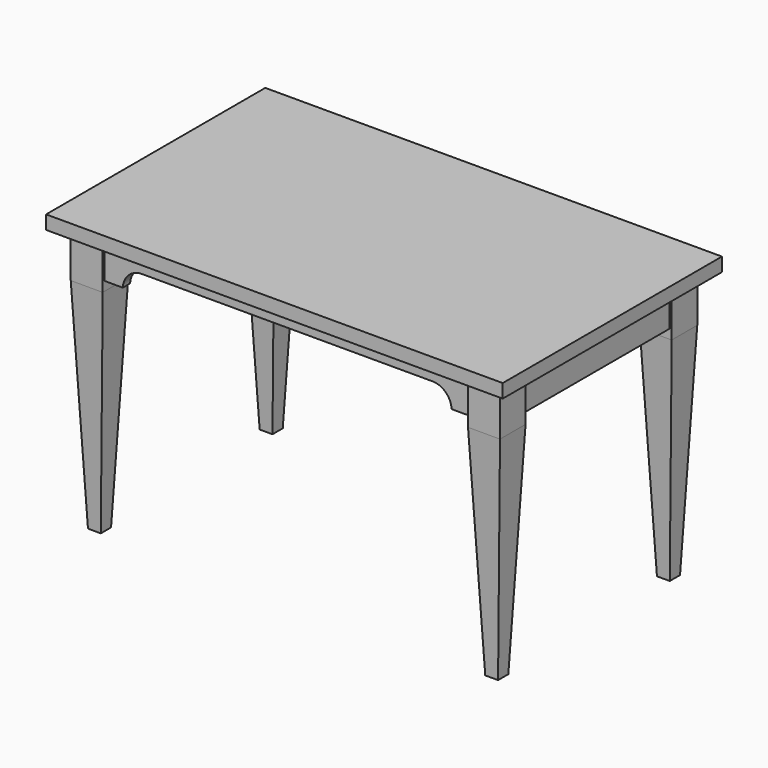
from build123d import *

# Parameters (mm, degrees)
F0_W      = 1270
F0_H      = 762
F0_W_2    = 1263.65
F0_H_2    = 755.65
F1_DEPTH  = 38.1
F3_W      = 88.9
F3_H      = 88.9
F4_DEPTH  = 127
F6_W      = 1181.1
F6_H      = 673.1
F7_DEPTH  = 101.6
F8_T      = -25.4
F9_W      = 1270
F9_H      = 762
F9_W_2    = 1193.8
F9_H_2    = 685.8
F10_DEPTH = 3.175
F11_W     = 1270
F11_H     = 762
F12_DEPTH = 38.1
F13_W     = 88.9
F13_H     = 88.9
F14_DEPTH = 609.6
F14_TAPER = 2.5
F15_W     = 914.4
F15_H     = 89.9768384933
F16_DEPTH = 1219.2


with BuildPart() as f1:
    # F0 (on Top) → F1 (new body)
    with BuildSketch(Plane.XY):
        Rectangle(F0_W, F0_H)
        Rectangle(F0_W_2, F0_H_2, mode=Mode.SUBTRACT)
    extrude(amount=F1_DEPTH)



with BuildPart() as f4:
    # F3 (on face) → F4 (new body)
    with BuildSketch(Plane(origin=(0, 0, 0), x_dir=(1, 0, 0), z_dir=(0, 0, -1))):
        with Locations((-552.45, 298.45)):
            Rectangle(F3_W, F3_H)
    extrude(amount=F4_DEPTH)


with BuildPart() as f4b:
    # F3 (on face) → F4, piece 2 (new body)
    with BuildSketch(Plane(origin=(0, 0, 0), x_dir=(1, 0, 0), z_dir=(0, 0, -1))):
        with Locations((-552.45, -298.45)):
            Rectangle(F3_W, F3_H)
    extrude(amount=F4_DEPTH)


with BuildPart() as f5_1:
    # F5: instance of F4
    add(f4.part.mirror(Plane.YZ))


with BuildPart() as f5_2:
    # F5: instance of F4b
    add(f4b.part.mirror(Plane.YZ))


with BuildPart() as f7:
    # F6 (on face) → F7 (new body)
    with BuildSketch(Plane(origin=(0, 0, 0), x_dir=(1, 0, 0), z_dir=(0, 0, -1))):
        Rectangle(F6_W, F6_H)
    extrude(amount=F7_DEPTH)

    # F8
    f8_openings = [f7.faces().sort_by_distance(p)[0] for p in [
        (0, 0, -101.6),
    ]]
    offset(amount=F8_T, openings=f8_openings)

    # F15 (on face) → F16 (cut)
    with BuildSketch(Plane.XZ.offset(336.55)):
        with BuildLine():
            Line((404.0411037901, -50.8), (-404.0411037901, -50.8))
            ThreePointArc((-404.0411037901, -50.8), (-440.8055847679, -65.5420254846), (-457.2, -101.6))
            Line((-457.2, -101.6), (457.2, -101.6))
            ThreePointArc((457.2, -101.6), (440.8055847679, -65.5420254846), (404.0411037901, -50.8))
        make_face()
        with Locations((0, -146.5884192467)):
            Rectangle(F15_W, F15_H)
    extrude(amount=-F16_DEPTH, mode=Mode.SUBTRACT)


with BuildPart() as f1_1:
    add(f1.part)

    add(f4.part)  # F10 merges F4

    add(f4b.part)  # F10 merges F4b

    add(f5_1.part)  # F10 merges F5_1

    add(f5_2.part)  # F10 merges F5_2
    # F9 (on Top) → F10 (join)
    with BuildSketch(Plane.XY):
        Rectangle(F9_W, F9_H)
        Rectangle(F9_W_2, F9_H_2, mode=Mode.SUBTRACT)
    extrude(amount=F10_DEPTH)


with BuildPart() as f12:
    # F11 (on Top) → F12 (new body)
    with BuildSketch(Plane.XY):
        Rectangle(F11_W, F11_H)
    extrude(amount=F12_DEPTH)


with BuildPart() as f14:
    # F13 (on face) → F14 (new body)
    with BuildSketch(Plane(origin=(0, 0, -127), x_dir=(1, 0, 0), z_dir=(0, 0, -1))):
        with Locations((-552.45, 298.45)):
            Rectangle(F13_W, F13_H)
    extrude(amount=F14_DEPTH, taper=F14_TAPER)


with BuildPart() as f14b:
    # F13 (on face) → F14, piece 2 (new body)
    with BuildSketch(Plane(origin=(0, 0, -127), x_dir=(1, 0, 0), z_dir=(0, 0, -1))):
        with Locations((552.45, 298.45)):
            Rectangle(F13_W, F13_H)
    extrude(amount=F14_DEPTH, taper=F14_TAPER)


with BuildPart() as f14c:
    # F13 (on face) → F14, piece 3 (new body)
    with BuildSketch(Plane(origin=(0, 0, -127), x_dir=(1, 0, 0), z_dir=(0, 0, -1))):
        with Locations((552.45, -298.45)):
            Rectangle(F13_W, F13_H)
    extrude(amount=F14_DEPTH, taper=F14_TAPER)


with BuildPart() as f14d:
    # F13 (on face) → F14, piece 4 (new body)
    with BuildSketch(Plane(origin=(0, 0, -127), x_dir=(1, 0, 0), z_dir=(0, 0, -1))):
        with Locations((-552.45, -298.45)):
            Rectangle(F13_W, F13_H)
    extrude(amount=F14_DEPTH, taper=F14_TAPER)


solid = Compound([f7.part, f1_1.part, f12.part, f14.part, f14b.part, f14c.part, f14d.part])
